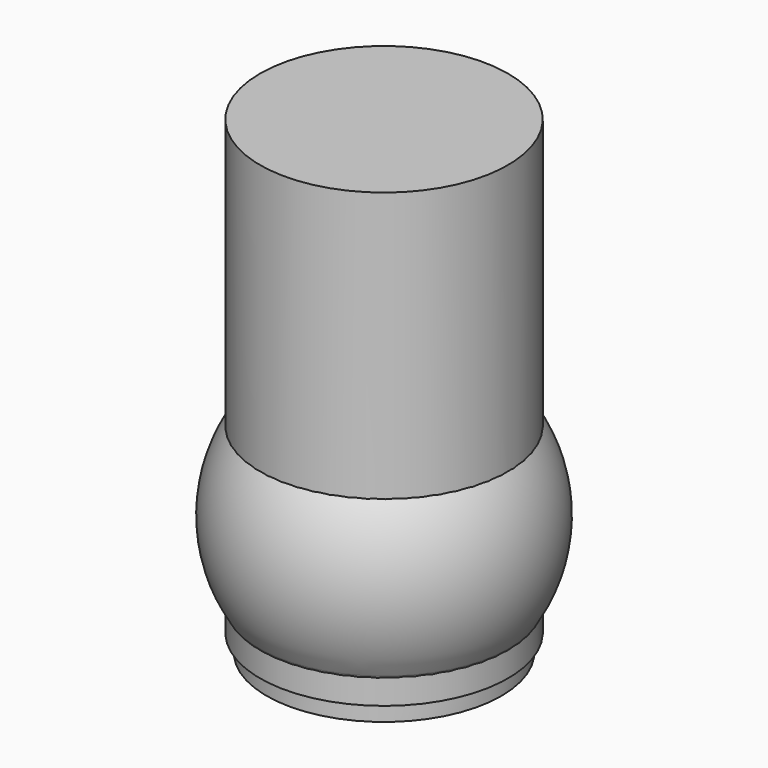
from build123d import *

# Parameters (mm, degrees)
F2_T      = -3
F1_FACE_R = 40
F3_DEPTH  = 6


with BuildPart() as f1:
    # F0 (on Front) → F1 (revolve)
    with BuildSketch(Plane.XZ):
        with BuildLine():
            ThreePointArc((-28.434111, 125.420341), (-19.631114, 102.412188), (-30.998059, 80.556744))
            ThreePointArc((-30.998059, 80.556744), (-49.234718, 50.039622), (-42.580854, 15.116899))
            ThreePointArc((-42.580854, 15.116899), (-40.657647, 10.73758), (-40, 6))
            Line((-40, 6), (-40, 0))
            Line((-40, 0), (0, 0))
            Line((0, 0), (0, 153.243286))
            Line((0, 153.243286), (0, 160))
            Line((0, 160), (-40, 160))
            Line((-40, 160), (-42.251319, 160))
            Line((-42.251319, 160), (-42.251319, 158.215627))
            ThreePointArc((-42.251319, 158.215627), (-40.58905, 155.972416), (-40, 153.243286))
            ThreePointArc((-40, 153.243286), (-36.993366, 138.177712), (-28.434111, 125.420341))
        make_face()
    revolve(axis=Axis((0, 0, 80), (0, 0, -1)))

    # F2
    f2_openings = [f1.faces().sort_by_distance(p)[0] for p in [
        (0, 0, 160),
    ]]
    offset(amount=F2_T, openings=f2_openings)

    # F1_face (on face) → F3 (join)
    with BuildSketch(Plane(origin=(0, 0, 0), x_dir=(1, 0, 0), z_dir=(0, 0, -1))):
        Circle(F1_FACE_R)
    extrude(amount=-F3_DEPTH)


with BuildPart() as f5:
    # F4 (on Front) → F5 (revolve)
    with BuildSketch(Plane.XZ):
        Polygon((-42.251319, 6), (-40, 6), (0, 6), (0, 160), (-42.251319, 160), align=None)
    revolve(axis=Axis((0, 0, 83), (0, 0, -1)))


solid = Compound([f1.part, f5.part])
